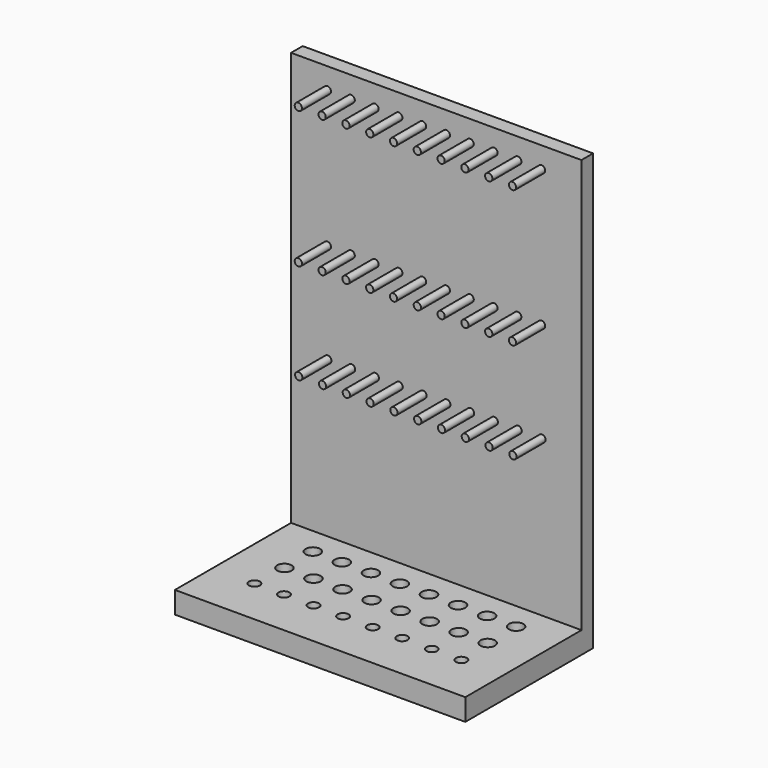
from build123d import *

# Parameters (mm, degrees)
F0_W      = 101.6
F0_H      = 152.4
F1_DEPTH  = 5.08
F2_W      = 101.6
F2_H      = 7.62
F3_DEPTH  = 50.8
F4_R      = 2.54
F5_DEPTH  = 25.4
F6_R      = 2.54
F7_DEPTH  = 25.4
F8_R      = 1.905
F9_DEPTH  = 25.4
F10_R     = 1.27
F11_DEPTH = 12.7
F12_R     = 1.27
F13_DEPTH = 12.7
F14_R     = 1.27
F15_DEPTH = 12.7


with BuildPart() as f1:
    # F0 (on Front) → F1 (new body)
    with BuildSketch(Plane.XZ):
        with Locations((-9.830583, 25.110631)):
            Rectangle(F0_W, F0_H)
    extrude(amount=F1_DEPTH)

    # F2 (on face) → F3 (join)
    with BuildSketch(Plane.XZ.offset(5.08)):
        with Locations((-9.830583, -47.279369)):
            Rectangle(F2_W, F2_H)
    extrude(amount=F3_DEPTH)

    # F4 (on face) → F5 (cut)
    with BuildSketch(Plane.XY.offset(-43.469369)):
        with Locations((-45.390583, -14.613039)):
            Circle(F4_R)
        with Locations((-35.230583, -14.613039)):
            Circle(F4_R)
        with Locations((-25.070583, -14.613039)):
            Circle(F4_R)
        with Locations((-14.910583, -14.613039)):
            Circle(F4_R)
        with Locations((-4.750583, -14.613039)):
            Circle(F4_R)
        with Locations((5.409417, -14.613039)):
            Circle(F4_R)
        with Locations((15.569417, -14.613039)):
            Circle(F4_R)
        with Locations((25.729417, -14.613039)):
            Circle(F4_R)
    extrude(amount=-F5_DEPTH, mode=Mode.SUBTRACT)

    # F6 (on face) → F7 (cut)
    with BuildSketch(Plane.XY.offset(-43.469369)):
        with Locations((-45.390583, -27.030999)):
            Circle(F6_R)
        with Locations((-35.230583, -27.030999)):
            Circle(F6_R)
        with Locations((-25.070583, -27.030999)):
            Circle(F6_R)
        with Locations((-14.910583, -27.030999)):
            Circle(F6_R)
        with Locations((-4.750583, -27.030999)):
            Circle(F6_R)
        with Locations((5.409417, -27.030999)):
            Circle(F6_R)
        with Locations((15.569417, -27.030999)):
            Circle(F6_R)
        with Locations((25.729417, -27.030999)):
            Circle(F6_R)
    extrude(amount=-F7_DEPTH, mode=Mode.SUBTRACT)

    # F8 (on face) → F9 (cut)
    with BuildSketch(Plane.XY.offset(-43.469369)):
        with Locations((26.364417, -39.353926)):
            Circle(F8_R)
        with Locations((16.022989, -39.353926)):
            Circle(F8_R)
        with Locations((5.68156, -39.353926)):
            Circle(F8_R)
        with Locations((-4.659868, -39.353926)):
            Circle(F8_R)
        with Locations((-15.001297, -39.353926)):
            Circle(F8_R)
        with Locations((-25.342725, -39.353926)):
            Circle(F8_R)
        with Locations((-35.684154, -39.353926)):
            Circle(F8_R)
        with Locations((-46.025583, -39.353926)):
            Circle(F8_R)
    extrude(amount=-F9_DEPTH, mode=Mode.SUBTRACT)

    # F10 (on face) → F11 (join)
    with BuildSketch(Plane.XZ.offset(5.08)):
        with Locations((-47.930583, 93.943223)):
            Circle(F10_R)
        with Locations((-39.605027, 93.943223)):
            Circle(F10_R)
        with Locations((-31.279471, 93.943223)):
            Circle(F10_R)
        with Locations((-22.953916, 93.943223)):
            Circle(F10_R)
        with Locations((-14.62836, 93.943223)):
            Circle(F10_R)
        with Locations((-6.302805, 93.943223)):
            Circle(F10_R)
        with Locations((2.022751, 93.943223)):
            Circle(F10_R)
        with Locations((10.348306, 93.943223)):
            Circle(F10_R)
        with Locations((18.673862, 93.943223)):
            Circle(F10_R)
        with Locations((26.999417, 93.943223)):
            Circle(F10_R)
    extrude(amount=F11_DEPTH)

    # F12 (on face) → F13 (join)
    with BuildSketch(Plane.XZ.offset(5.08)):
        with Locations((-47.930583, 46.068911)):
            Circle(F12_R)
        with Locations((-39.605027, 46.068911)):
            Circle(F12_R)
        with Locations((-31.279471, 46.068911)):
            Circle(F12_R)
        with Locations((-22.953916, 46.068911)):
            Circle(F12_R)
        with Locations((-14.62836, 46.068911)):
            Circle(F12_R)
        with Locations((-6.302805, 46.068911)):
            Circle(F12_R)
        with Locations((2.022751, 46.068911)):
            Circle(F12_R)
        with Locations((10.348306, 46.068911)):
            Circle(F12_R)
        with Locations((18.673862, 46.068911)):
            Circle(F12_R)
        with Locations((26.999417, 46.068911)):
            Circle(F12_R)
    extrude(amount=F13_DEPTH)

    # F14 (on face) → F15 (join)
    with BuildSketch(Plane.XZ.offset(5.08)):
        with Locations((-47.791654, 11.04094)):
            Circle(F14_R)
        with Locations((-39.466098, 11.04094)):
            Circle(F14_R)
        with Locations((-31.140543, 11.04094)):
            Circle(F14_R)
        with Locations((-22.814987, 11.04094)):
            Circle(F14_R)
        with Locations((-14.489432, 11.04094)):
            Circle(F14_R)
        with Locations((-6.163876, 11.04094)):
            Circle(F14_R)
        with Locations((2.161679, 11.04094)):
            Circle(F14_R)
        with Locations((10.487235, 11.04094)):
            Circle(F14_R)
        with Locations((18.812791, 11.04094)):
            Circle(F14_R)
        with Locations((27.138346, 11.04094)):
            Circle(F14_R)
    extrude(amount=F15_DEPTH)


solid = f1.part
